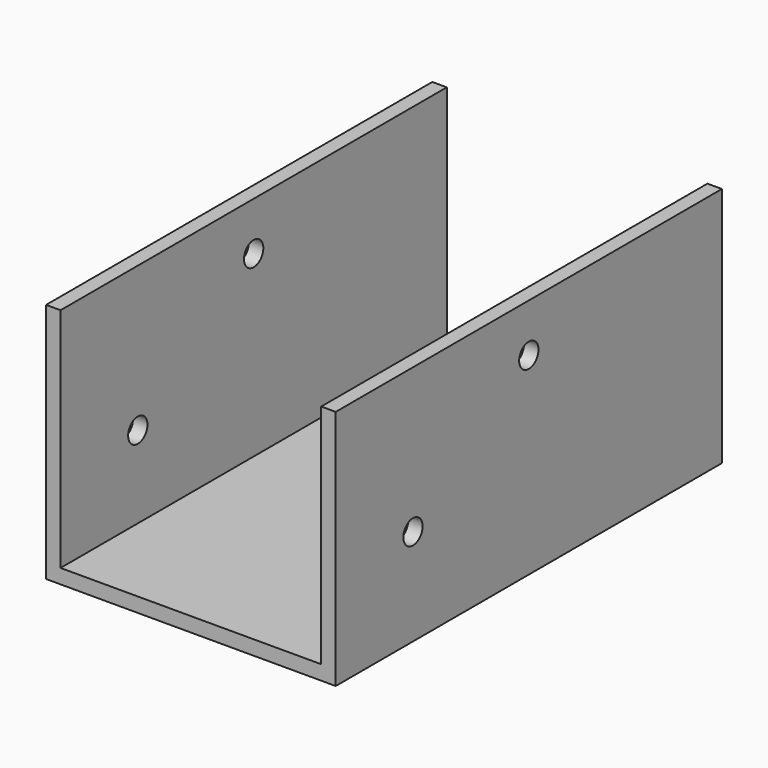
from build123d import *

# Parameters (mm, degrees)
F1_DEPTH = 100
F2_R     = 2.5
F3_DEPTH = 60.001


with BuildPart() as f1:
    # F0 (on Front) → F1 (new body)
    with BuildSketch(Plane.XZ):
        Polygon((-30, 0), (0, 0), (0, 3), (-27, 3), (-27, 50), (-30, 50), align=None)
        Polygon((0, 3), (0, 0), (30, 0), (30, 50), (27, 50), (27, 3), align=None)
    extrude(amount=F1_DEPTH)

    # F2 (on face) → F3 (cut, through all)
    with BuildSketch(Plane(origin=(-30, 0, 0), x_dir=(0, -1, 0), z_dir=(-1, 0, 0))):
        with Locations((80, 20)):
            Circle(F2_R)
        with Locations((50, 40)):
            Circle(F2_R)
    extrude(amount=-F3_DEPTH, mode=Mode.SUBTRACT)


solid = f1.part
